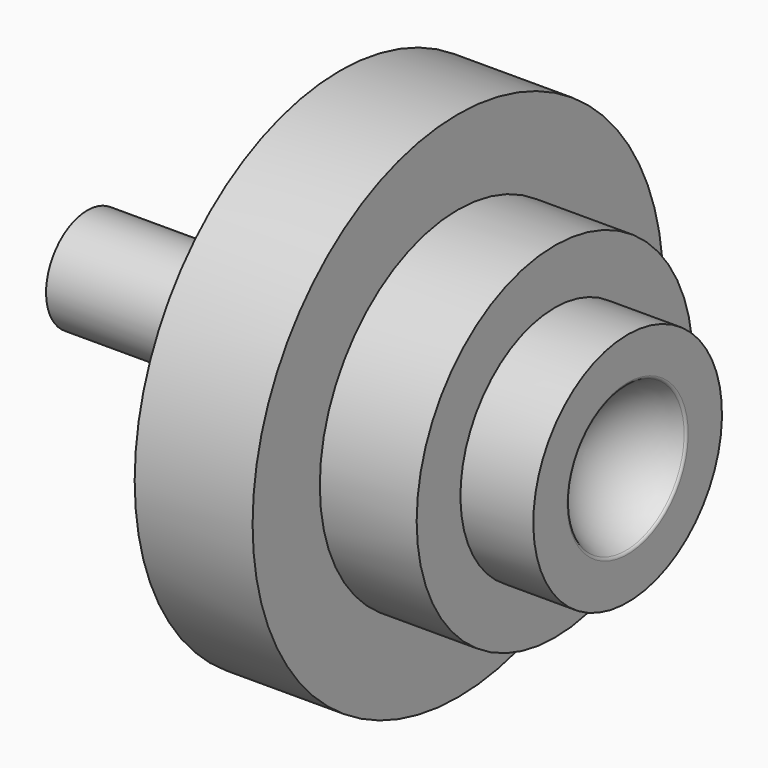
from build123d import *


with BuildPart() as f1:
    # F0 (on Front) → F1 (revolve)
    with BuildSketch(Plane.XZ):
        with BuildLine():
            Line((2.6, 4.1), (0.3, 4.1))
            Line((0.3, 4.1), (0.3, 6.095))
            Line((0.3, 6.095), (-2.5, 6.095))
            Line((-2.5, 6.095), (-2.5, 1.75))
            Line((-2.5, 1.75), (-2.5, 1.225))
            Line((-2.5, 1.225), (-8.5, 1.225))
            Line((-8.5, 1.225), (-8.5, 0))
            Line((-8.5, 0), (-2.5, 0))
            Line((-2.5, 0), (3.150831, 0))
            ThreePointArc((3.150831, 0), (3.47066, 1.028598), (4.287321, 1.731))
            ThreePointArc((4.287321, 1.731), (4.318414, 1.758041), (4.33, 1.797586))
            Line((4.33, 1.797586), (4.33, 2.8))
            Line((4.33, 2.8), (2.6, 2.8))
            Line((2.6, 2.8), (2.6, 4.1))
        make_face()
    revolve(axis=Axis((0.325416, 0, 0), (1, 0, 0)))


solid = f1.part
